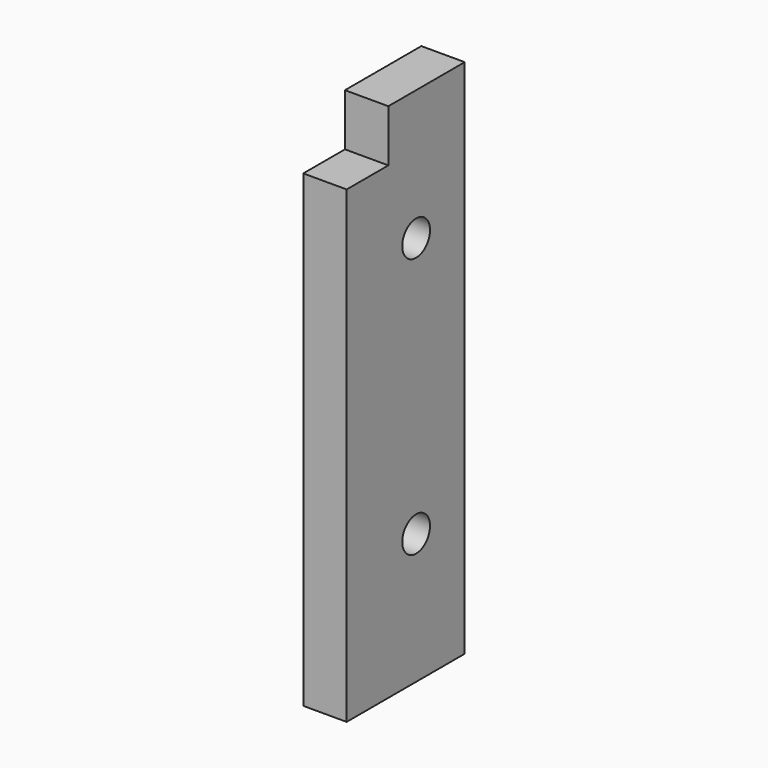
from build123d import *

# Parameters (mm, degrees)
CIRCLE010_R      = 2
EXTRUDE093_DEPTH = 5
CIRCLE005_R      = 2
EXTRUDE091_DEPTH = 5
RECTANGLE064_W   = 6
RECTANGLE064_H   = 6
EXTRUDE078_DEPTH = 7.5
RECTANGLE038_W   = 17
RECTANGLE038_H   = 60
EXTRUDE045_DEPTH = 5


with BuildPart() as extrude093:
    # Circle010 → Extrude093 (new body)
    with BuildSketch(Plane(origin=(-250, 10, 55), x_dir=(0, 1, 0), z_dir=(1, 0, 0))):
        Circle(CIRCLE010_R)
    extrude(amount=EXTRUDE093_DEPTH)


with BuildPart() as extrude091:
    # Circle005 → Extrude091 (new body)
    with BuildSketch(Plane(origin=(-250, 10, 25), x_dir=(0, 1, 0), z_dir=(1, 0, 0))):
        Circle(CIRCLE005_R)
    extrude(amount=EXTRUDE091_DEPTH)


with BuildPart() as extrude078:
    # Rectangle064 → Extrude078 (new body)
    with BuildSketch(Plane(origin=(-250, 6, 64), x_dir=(0, -1, 0), z_dir=(-1, 0, 0))):
        with Locations((3, 3)):
            Rectangle(RECTANGLE064_W, RECTANGLE064_H)
    extrude(amount=-EXTRUDE078_DEPTH)


with BuildPart() as cut011:
    # Rectangle038 → Extrude045 (new body)
    with BuildSketch(Plane(origin=(0, 0, 10), x_dir=(0, 1, 0), z_dir=(1, 0, 0))):
        with Locations((8.5, 30)):
            Rectangle(RECTANGLE038_W, RECTANGLE038_H)
    extrude(amount=EXTRUDE045_DEPTH)


with BuildPart() as cut011_1:
    # Extrude045 placement: moved
    add(cut011.part.moved(Location((-250, 0, 0))))

    # Cut: cut Extrude078
    add(extrude078.part, mode=Mode.SUBTRACT)

    # Cut010: cut Extrude091
    add(extrude091.part, mode=Mode.SUBTRACT)

    # Cut011: cut Extrude093
    add(extrude093.part, mode=Mode.SUBTRACT)


solid = cut011_1.part
